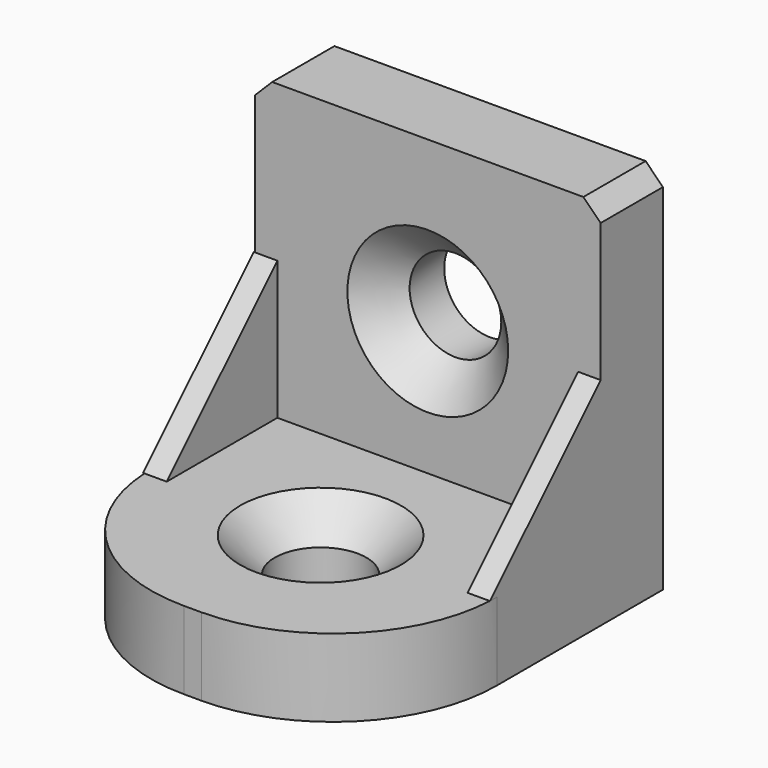
from build123d import *

# Parameters (mm, degrees)
SKETCH_W        = 20
SKETCH_H        = 21.5
PAD_DEPTH       = 21.5
FILLET_R        = 9.5
BOX_W           = 22
BOX_H           = 22
BOX_DEPTH       = 22
SKETCH001_R     = 2.65
POCKET_DEPTH    = 4.5
SKETCH002_R     = 2.65
POCKET001_DEPTH = 4.5
CHAMFER_SIZE    = 2
CHAMFER001_SIZE = 1
SKETCH003_W     = 1.3
SKETCH003_H     = 8
SKETCH003_W_2   = 1.36674
PAD001_DEPTH    = 8
POCKET002_DEPTH = 20.06774


with BuildPart() as part:
    # Sketch → Pad (new body)
    with BuildSketch(Plane.XZ):
        with Locations((0, 10.75)):
            Rectangle(SKETCH_W, SKETCH_H)
    extrude(amount=PAD_DEPTH)

    # Fillet
    fillet_edges = [part.edges().sort_by_distance(p)[0] for p in [
        (10, -21.5, 10.75),
        (-10, -21.5, 10.75),
    ]]
    fillet(fillet_edges, radius=FILLET_R)

    # Box → Box (cut)
    with BuildSketch(Plane(origin=(-11, -4.5, 4.5), x_dir=(1, 0, 0), z_dir=(0, -1, 0))):
        with Locations((11, 11)):
            Rectangle(BOX_W, BOX_H)
    extrude(amount=BOX_DEPTH, mode=Mode.SUBTRACT)

    # Sketch001 (on Face6 of Box) → Pocket (cut)
    with BuildSketch(Plane(origin=(0, -4.5, 12.25), x_dir=(1, 0, 0), z_dir=(0, -1, 0))):
        Circle(SKETCH001_R)
    extrude(amount=-POCKET_DEPTH, mode=Mode.SUBTRACT)

    # Sketch002 (on Face5 of Pocket) → Pocket001 (cut)
    with BuildSketch(Plane(origin=(0, -12.25, 4.5), x_dir=(-1, 0, 0), z_dir=(0, 0, 1))):
        Circle(SKETCH002_R)
    extrude(amount=-POCKET001_DEPTH, mode=Mode.SUBTRACT)

    # Chamfer
    chamfer_edges = [part.edges().sort_by_distance(p)[0] for p in [
        (-2.65, -4.5, 12.25),
        (2.65, -12.25, 4.5),
    ]]
    chamfer(chamfer_edges, length=CHAMFER_SIZE)

    # Chamfer001
    chamfer001_edges = [part.edges().sort_by_distance(p)[0] for p in [
        (10, -2.25, 21.5),
        (-10, -2.25, 21.5),
    ]]
    chamfer(chamfer001_edges, length=CHAMFER001_SIZE)

    # Sketch003 (on Face1 of Chamfer001) → Pad001 (join)
    with BuildSketch(Plane(origin=(0, -4.5, 4.5), x_dir=(1, 0, 0), z_dir=(0, -1, 0))):
        with Locations((9.35, 4)):
            Rectangle(SKETCH003_W, SKETCH003_H)
        with Locations((-9.38337, 4)):
            Rectangle(SKETCH003_W_2, SKETCH003_H)
    extrude(amount=PAD001_DEPTH)

    # Sketch004 (on Face26 of Pad001) → Pocket002 (cut, through all)
    with BuildSketch(Plane(origin=(10, -4.5, 4.5), x_dir=(0, 0, 1), z_dir=(1, 0, 0))):
        Polygon((0, 8), (8, 0), (8, 8), align=None)
    extrude(amount=-POCKET002_DEPTH, mode=Mode.SUBTRACT)


solid = part.part
